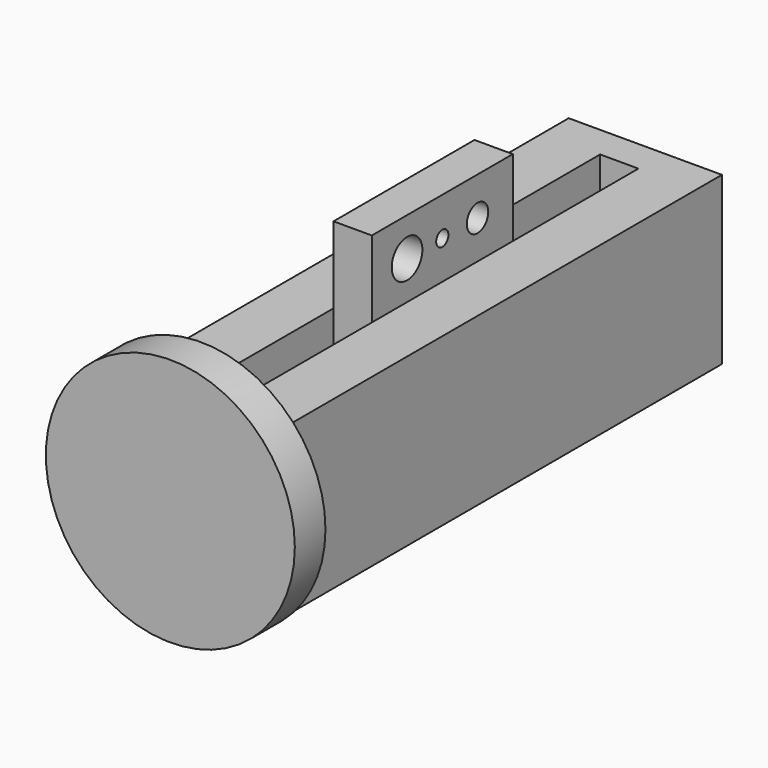
from build123d import *

# Parameters (mm, degrees)
F0_W     = 4
F0_H     = 14.5
F1_DEPTH = 4.35
F0_W_2   = 1
F0_H_2   = 4.6
F2_DEPTH = 6.35
F4_R     = 3.25
F4_W     = 4
F4_H     = 4.35
F5_DEPTH = 1
F3_R     = 0.5
F3_R_2   = 0.2
F3_R_3   = 0.35
F6_DEPTH = 3.751


with BuildPart() as f1:
    # F0 (on Top) → F1 (new body)
    with BuildSketch(Plane.XY):
        Rectangle(F0_W, F0_H)
        Polygon((-0.5, 6.4), (0.5, 6.4), (0.5, 2.3), (0.5, -2.3), (0.5, -6.4), (-0.5, -6.4), (-0.5, -2.3), (-0.5, 2.3), align=None, mode=Mode.SUBTRACT)
    extrude(amount=F1_DEPTH)

    # F4 (on face) → F5 (join)
    with BuildSketch(Plane.XZ.offset(7.25)):
        with Locations((0, 2.5)):
            Circle(F4_R)
        with Locations((0, 2.175)):
            Rectangle(F4_W, F4_H, mode=Mode.SUBTRACT)
        with Locations((0, 2.175)):
            Rectangle(F4_W, F4_H)
    extrude(amount=F5_DEPTH)


with BuildPart() as f2:
    # F0 (on Top) → F2 (new body)
    with BuildSketch(Plane.XY):
        Rectangle(F0_W_2, F0_H_2)
    extrude(amount=F2_DEPTH)

    # F3 (on face) → F6 (cut, through all)
    with BuildSketch(Plane.YZ.offset(0.5)):
        with Locations((-1.15, 5.35)):
            Circle(F3_R)
        with Locations((0, 5.35)):
            Circle(F3_R_2)
        with Locations((1.15, 5.35)):
            Circle(F3_R_3)
    extrude(amount=-F6_DEPTH, mode=Mode.SUBTRACT)


solid = Compound([f1.part, f2.part])
